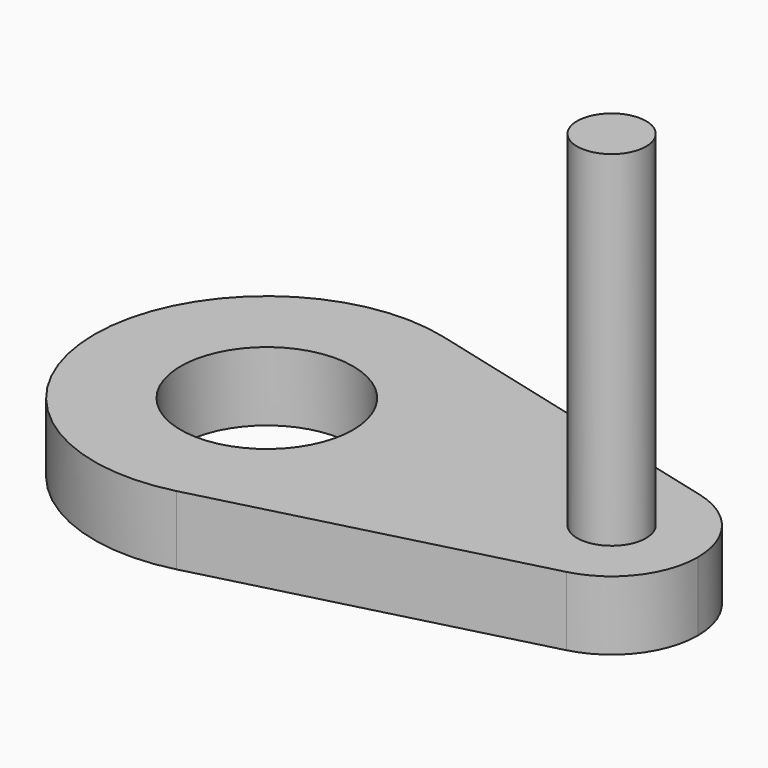
from build123d import *

# Parameters (mm, degrees)
F1_DEPTH = 20
F3_R     = 25
F2_DEPTH = 20.001
F4_R     = 10
F5_DEPTH = 100


with BuildPart() as f1:
    # F0 (on Top) → F1 (new body)
    with BuildSketch(Plane.XY):
        with BuildLine():
            ThreePointArc((12.5, -48.412292), (39.528471, -30.618622), (50, 0))
            ThreePointArc((50, 0), (39.528471, 30.618622), (12.5, 48.412292))
            ThreePointArc((12.5, 48.412292), (-50, 0), (12.5, -48.412292))
        make_face()
        with BuildLine():
            ThreePointArc((12.5, 48.412292), (39.528471, 30.618622), (50, 0))
            Line((50, 0), (75, 0))
            ThreePointArc((75, 0), (84.690689, 19.764235), (106.25, 24.206146))
            Line((106.25, 24.206146), (12.5, 48.412292))
        make_face()
        with BuildLine():
            Line((75, 0), (50, 0))
            ThreePointArc((50, 0), (39.528471, -30.618622), (12.5, -48.412292))
            Line((12.5, -48.412292), (106.25, -24.206146))
            ThreePointArc((106.25, -24.206146), (84.690689, -19.764235), (75, 0))
        make_face()
        with BuildLine():
            ThreePointArc((106.25, 24.206146), (84.690689, 19.764235), (75, 0))
            ThreePointArc((75, 0), (84.690689, -19.764235), (106.25, -24.206146))
            ThreePointArc((106.25, -24.206146), (119.764235, -15.309311), (125, 0))
            ThreePointArc((125, 0), (119.764235, 15.309311), (106.25, 24.206146))
        make_face()
    extrude(amount=F1_DEPTH)

    # F3 (on face) → F2 (cut, through all)
    with BuildSketch(Plane.XY.offset(20)):
        Circle(F3_R)
    extrude(amount=-F2_DEPTH, mode=Mode.SUBTRACT)

    # F4 (on face) → F5 (join)
    with BuildSketch(Plane.XY.offset(20)):
        with Locations((100, 0)):
            Circle(F4_R)
    extrude(amount=F5_DEPTH)


solid = f1.part
